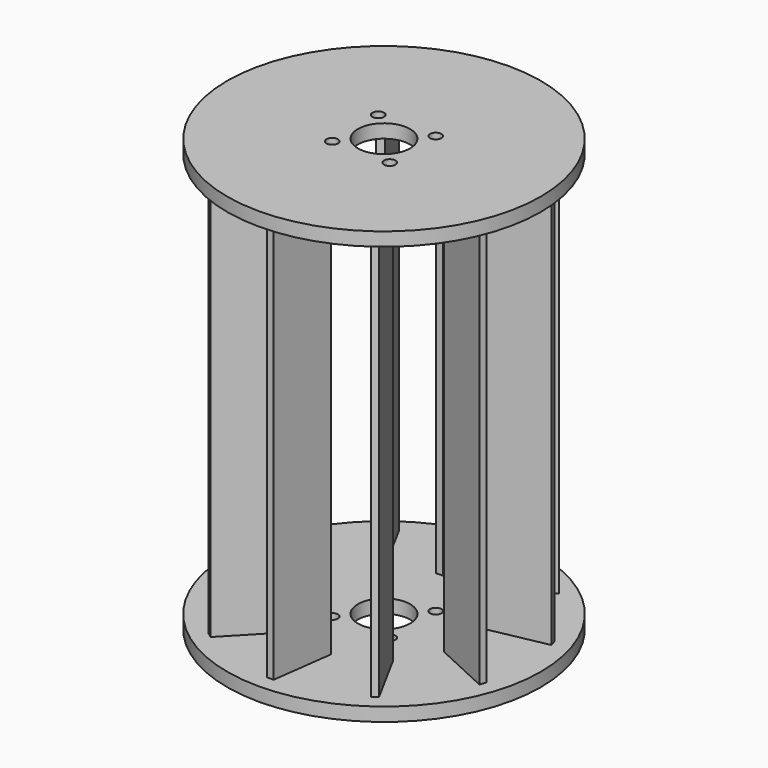
from build123d import *

# Parameters (mm, degrees)
F0_R     = 38.1
F0_R_2   = 3.175
F1_DEPTH = 3.302
F2_DEPTH = 101.6
F3_R     = 38.08114
F3_R_2   = 3.175
F4_DEPTH = 3.302
F6_R     = 1.397
F6_R_2   = 6.35
F7_DEPTH = 136.906


with BuildPart() as f1:
    # F0 (on Top) → F1 (new body)
    with BuildSketch(Plane.XY):
        Circle(F0_R)
        Polygon((-19.714349, -27.997382), (-20.965572, -27.06588), (-10.624112, -16.024547), (-9.259141, -17.040731), align=None, mode=Mode.SUBTRACT)
        Polygon((-32.427083, -10.999691), (-32.888933, -9.50974), (-18.027077, -6.684488), (-17.52324, -8.309888), align=None, mode=Mode.SUBTRACT)
        Polygon((0.573601, -34.237113), (-0.986216, -34.221988), (0.861155, -19.207194), (2.562772, -19.223693), align=None, mode=Mode.SUBTRACT)
        Polygon((20.641144, -27.321275), (19.372093, -28.228339), (12.015524, -15.009499), (13.399943, -14.019975), align=None, mode=Mode.SUBTRACT)
        Polygon((32.777353, -9.907271), (32.286698, -11.387985), (18.552942, -5.044423), (19.088202, -3.429099), align=None, mode=Mode.SUBTRACT)
        Polygon((-32.679751, 10.224618), (-32.174761, 11.700505), (-18.503159, 5.224077), (-19.054056, 3.614019), align=None, mode=Mode.SUBTRACT)
        Polygon((-20.375264, 27.52013), (-19.097477, 28.414846), (-11.869425, 15.125297), (-13.263374, 14.149244), align=None, mode=Mode.SUBTRACT)
        Polygon((-2.749047, 19.197941), (-0.905541, 34.229942), (0.654349, 34.229942), (-1.04735, 19.197941), align=None, mode=Mode.SUBTRACT)
        Circle(F0_R_2, mode=Mode.SUBTRACT)
        Polygon((32.318904, 11.31359), (32.795179, 9.828188), (17.961416, 6.858967), (17.441843, 8.479405), align=None, mode=Mode.SUBTRACT)
        Polygon((19.441956, 28.187218), (20.702153, 27.267892), (10.468237, 16.126807), (9.093476, 17.129707), align=None, mode=Mode.SUBTRACT)
    extrude(amount=F1_DEPTH)

    # F0 (on Top) → F2 (join)
    with BuildSketch(Plane.XY):
        Polygon((-18.503159, 5.224077), (-32.174761, 11.700505), (-32.679751, 10.224618), (-19.054056, 3.614019), align=None)
        Polygon((-18.027077, -6.684488), (-32.888933, -9.50974), (-32.427083, -10.999691), (-17.52324, -8.309888), align=None)
        Polygon((-10.624112, -16.024547), (-20.965572, -27.06588), (-19.714349, -27.997382), (-9.259141, -17.040731), align=None)
        Polygon((0.861155, -19.207194), (-0.986216, -34.221988), (0.573601, -34.237113), (2.562772, -19.223693), align=None)
        Polygon((12.015524, -15.009499), (19.372093, -28.228339), (20.641144, -27.321275), (13.399943, -14.019975), align=None)
        Polygon((18.552942, -5.044423), (32.286698, -11.387985), (32.777353, -9.907271), (19.088202, -3.429099), align=None)
        Polygon((17.961416, 6.858967), (32.795179, 9.828188), (32.318904, 11.31359), (17.441843, 8.479405), align=None)
        Polygon((10.468237, 16.126807), (20.702153, 27.267892), (19.441956, 28.187218), (9.093476, 17.129707), align=None)
        Polygon((0.654349, 34.229942), (-0.905541, 34.229942), (-2.749047, 19.197941), (-1.04735, 19.197941), align=None)
        Polygon((-11.869425, 15.125297), (-19.097477, 28.414846), (-20.375264, 27.52013), (-13.263374, 14.149244), align=None)
    extrude(amount=F2_DEPTH)

    # F3 (on face) → F4 (join)
    with BuildSketch(Plane.XY.offset(101.6)):
        Circle(F3_R)
        Circle(F3_R_2, mode=Mode.SUBTRACT)
    extrude(amount=F4_DEPTH)

    # F6 (on face) → F7 (cut)
    with BuildSketch(Plane.XY):
        with Locations((6.985, -6.985001)):
            Circle(F6_R)
        with Locations((-6.985, -6.985001)):
            Circle(F6_R)
        with Locations((-6.985, 6.985001)):
            Circle(F6_R)
        with Locations((6.985, 6.985001)):
            Circle(F6_R)
        Circle(F6_R_2)
    extrude(amount=F7_DEPTH, mode=Mode.SUBTRACT)


solid = f1.part
